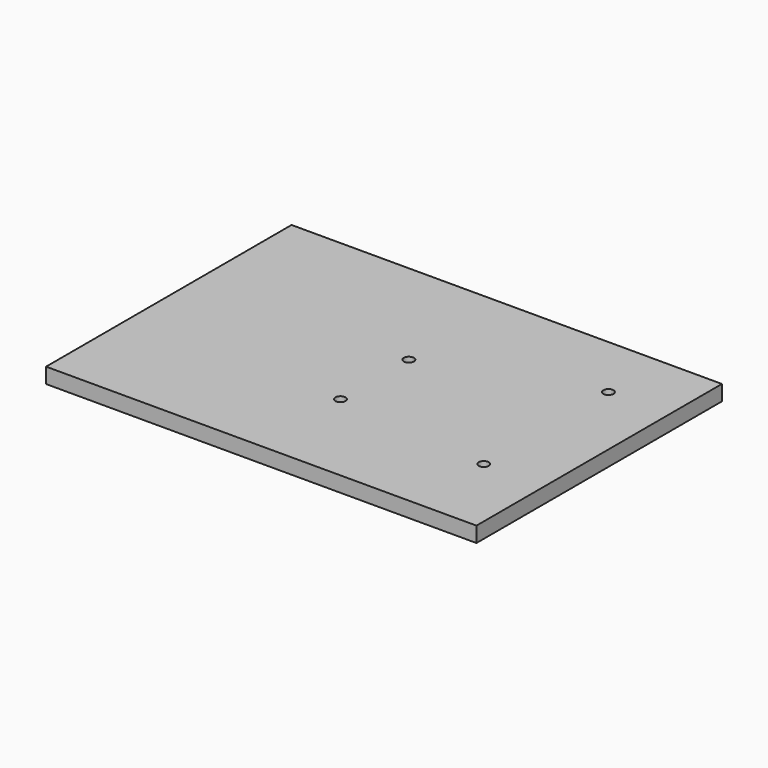
from build123d import *

# Parameters (mm, degrees)
SKETCH_R                  = 1.65
PAD_DEPTH                 = 10
SKETCH001_W               = 140.265109
SKETCH001_H               = 100
PAD003_DEPTH              = 5
FUSION008_PLACEMENT_ANGLE = 180


with BuildPart() as pad:
    # Sketch → Pad (new body)
    with BuildSketch(Plane.XY):
        with Locations((4.180322, -22.326468)):
            Circle(SKETCH_R)
        with Locations((4.180322, 28.473532)):
            Circle(SKETCH_R)
        with Locations((54.980322, -17.226468)):
            Circle(SKETCH_R)
        with Locations((54.980322, 10.673532)):
            Circle(SKETCH_R)
    extrude(amount=PAD_DEPTH)


with BuildPart() as cut:
    # Sketch001 → Pad003 (new body)
    with BuildSketch(Plane.XY):
        with Locations((54.553008, 0)):
            Rectangle(SKETCH001_W, SKETCH001_H)
    extrude(amount=PAD003_DEPTH)

    # Cut: cut Pad
    add(pad.part, mode=Mode.SUBTRACT)


with BuildPart() as placa:
    # Cone → Cone (revolve)
    with BuildSketch(Plane(origin=(109, 0, 0), x_dir=(1, 0, 0), z_dir=(0, -1, 0))):
        Polygon((0, 0), (10, 0), (4, 30), (0, 30), align=None)
    revolve(axis=Axis((109, 0, 0), (0, 0, 1)))

    # Fusion008: union Cut
    add(cut.part)


with BuildPart() as placa_1:
    # Fusion008 placement: moved
    add(placa.part.moved(Location((109, 0, 30))).rotate(Axis((109, 0, 30), (0, 1, 0)), FUSION008_PLACEMENT_ANGLE))


solid = placa_1.part
